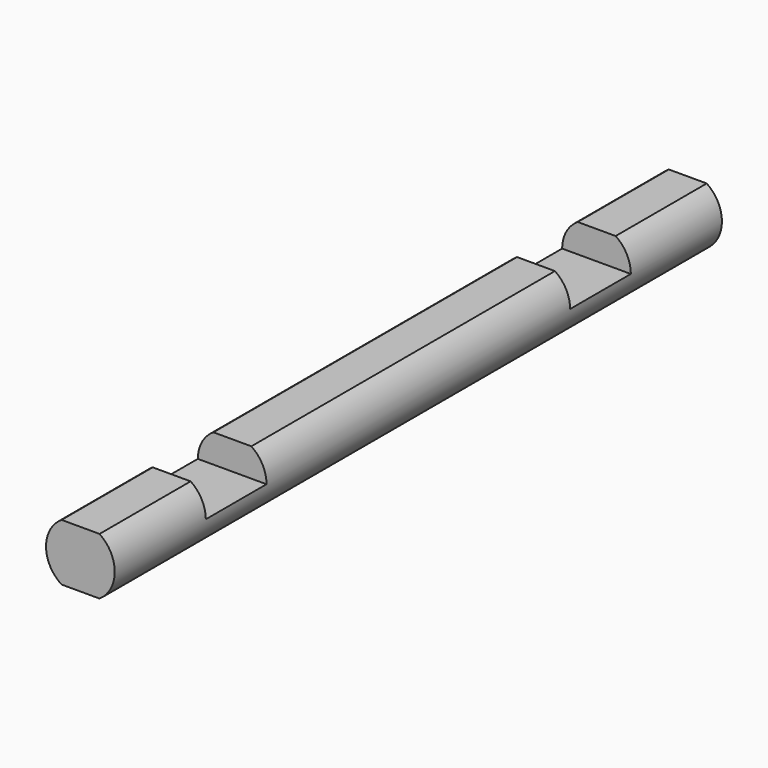
from build123d import *

# Parameters (mm, degrees)
F1_DEPTH = 508
F2_W     = 80.340108
F2_H     = 50.8
F2_W_2   = 82.870346
F3_DEPTH = 19.05


with BuildPart() as f1:
    # F0 (on Front) → F1 (new body)
    with BuildSketch(Plane.XZ):
        with BuildLine():
            Line((3.550242, 42.501207), (-21.849758, 42.501207))
            ThreePointArc((-21.849758, 42.501207), (-32.272509, 23.451207), (-21.849758, 4.401207))
            Line((-21.849758, 4.401207), (3.550242, 4.401207))
            ThreePointArc((3.550242, 4.401207), (13.712078, 23.451207), (3.550242, 42.501207))
        make_face()
    extrude(amount=F1_DEPTH)

    # F2 (on face) → F3 (cut)
    with BuildSketch(Plane.XY.offset(42.501207)):
        with Locations((-9.149758, -406.4)):
            Rectangle(F2_W, F2_H)
        with Locations((-9.149758, -101.6)):
            Rectangle(F2_W_2, F2_H)
    extrude(amount=-F3_DEPTH, mode=Mode.SUBTRACT)


solid = f1.part
